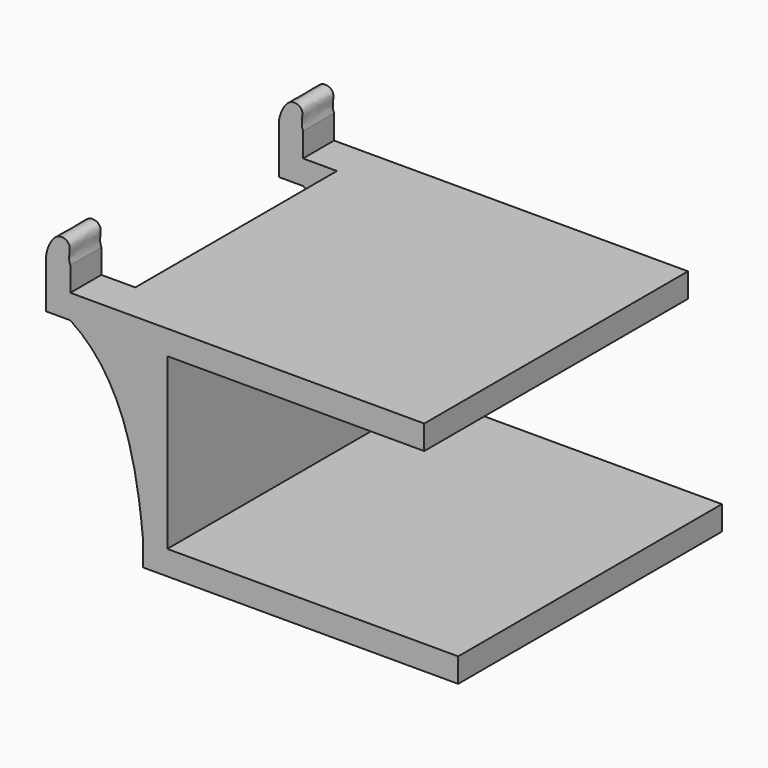
from build123d import *

# Parameters (mm, degrees)
F0_W     = 15
F0_H     = 5
F0_W_2   = 5
F0_H_2   = 35
F1_DEPTH = 34
F2_W     = 5
F2_H     = 10
F3_DEPTH = 34
F4_W     = 16.2579220422
F4_H     = 42.7319623083
F5_DEPTH = 26


with BuildPart() as f1:
    # F0 (on Front) → F1 (new body, symmetric)
    with BuildSketch(Plane.XZ):
        Polygon((-22.3241779208, 0), (30.6758220792, 0), (30.6758220792, 5), (-27.3241779208, 5), (-27.3241779208, 0), align=None)
        with Locations((-34.8241779208, 2.5)):
            Rectangle(F0_W, F0_H)
        with BuildLine():
            Line((-27.3241779208, -35), (-27.3241779208, 0))
            Line((-27.3241779208, 0), (-42.3241779208, 0))
            add(Edge.make_bspline(
                [(-42.3241779208, 0), (-32.1847312152, -6.594858598), (-28.7573114038, -19.590485841), (-27.3241779208, -35)],
                knots=[0, 0, 0, 0, 38.0788655293, 38.0788655293, 38.0788655293, 38.0788655293], degree=3))
        make_face()
        with Locations((-24.8241779208, -17.5)):
            Rectangle(F0_W_2, F0_H_2)
        Polygon((37.6758220792, -35), (-22.3241779208, -35), (-27.3241779208, -35), (-27.3241779208, -40), (37.6758220792, -40), align=None)
    extrude(amount=F1_DEPTH, both=True)

    # F2 (on Front) → F3 (join, symmetric)
    with BuildSketch(Plane.XZ):
        with Locations((-44.8241779208, 5)):
            Rectangle(F2_W, F2_H)
        with BuildLine():
            Line((-47.3241779208, 10), (-42.3241779208, 10))
            add(Edge.make_bspline(
                [(-47.3241779208, 10), (-47.1237004262, 11.8566387437), (-45.3455906765, 15.4385356924), (-41.5967992059, 13.7724758931), (-42.9261420784, 11.4005931192), (-42.3241779208, 10)],
                knots=[0, 0, 0, 0, 0.3979300769, 0.66673524, 1, 1, 1, 1], degree=3))
        make_face()
    extrude(amount=F3_DEPTH, both=True)

    # F4 (on Front) → F5 (cut, symmetric)
    with BuildSketch(Plane.XZ):
        with Locations((-43.4531389419, 0.3948621452)):
            Rectangle(F4_W, F4_H)
    extrude(amount=F5_DEPTH, both=True, mode=Mode.SUBTRACT)


solid = f1.part
